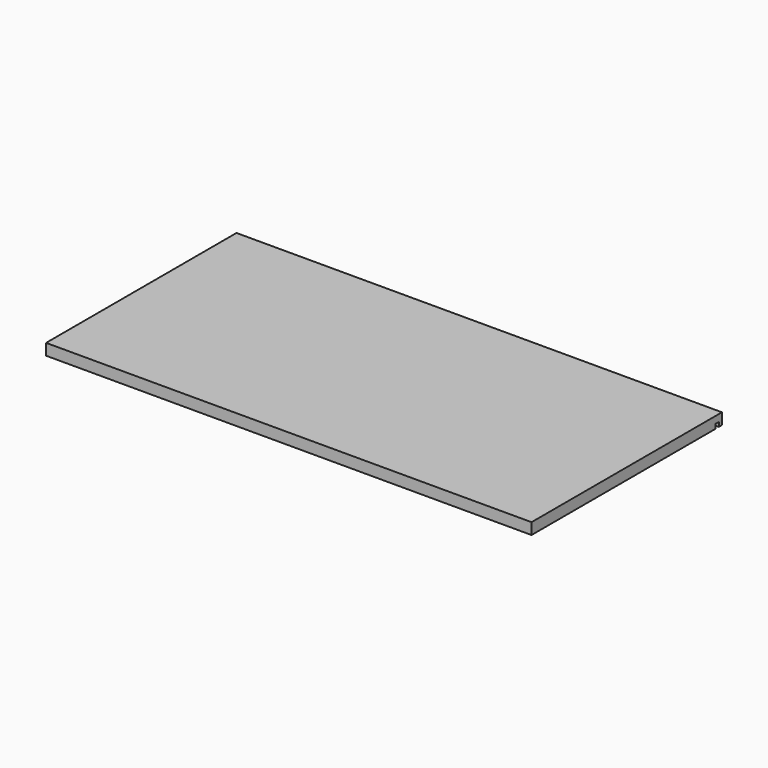
from build123d import *

# Parameters (mm, degrees)
SKETCH_W             = 771
SKETCH_H             = 378
PAD_DEPTH            = 18
SKETCH001_R          = 2.5
POCKET_DEPTH         = 9
SKETCH002_W          = 6.5
SKETCH002_H          = 7
POCKET001_DEPTH      = 550
POCKET001_DEPTH_BACK = -550


with BuildPart() as part:
    # Sketch → Pad (new body)
    with BuildSketch(Plane.XY):
        Rectangle(SKETCH_W, SKETCH_H)
    extrude(amount=PAD_DEPTH)

    # Sketch001 → Pocket (cut)
    with BuildSketch(Plane.XY.offset(9)):
        with Locations((-376, -81)):
            Circle(SKETCH001_R)
        with Locations((-344, -81)):
            Circle(SKETCH001_R)
        with Locations((-312, -81)):
            Circle(SKETCH001_R)
        with Locations((-280, -81)):
            Circle(SKETCH001_R)
        with Locations((-248, -81)):
            Circle(SKETCH001_R)
        with Locations((-216, -81)):
            Circle(SKETCH001_R)
        with Locations((-184, -81)):
            Circle(SKETCH001_R)
        with Locations((-152, -81)):
            Circle(SKETCH001_R)
        with Locations((-120, -81)):
            Circle(SKETCH001_R)
        with Locations((-88, -81)):
            Circle(SKETCH001_R)
        with Locations((-56, -81)):
            Circle(SKETCH001_R)
        with Locations((-24, -81)):
            Circle(SKETCH001_R)
        with Locations((8, -81)):
            Circle(SKETCH001_R)
        with Locations((40, -81)):
            Circle(SKETCH001_R)
        with Locations((72, -81)):
            Circle(SKETCH001_R)
        with Locations((104, -81)):
            Circle(SKETCH001_R)
        with Locations((136, -81)):
            Circle(SKETCH001_R)
        with Locations((168, -81)):
            Circle(SKETCH001_R)
        with Locations((200, -81)):
            Circle(SKETCH001_R)
        with Locations((232, -81)):
            Circle(SKETCH001_R)
        with Locations((264, -81)):
            Circle(SKETCH001_R)
        with Locations((296, -81)):
            Circle(SKETCH001_R)
        with Locations((-376, -17)):
            Circle(SKETCH001_R)
        with Locations((-344, -17)):
            Circle(SKETCH001_R)
        with Locations((-312, -17)):
            Circle(SKETCH001_R)
        with Locations((-280, -17)):
            Circle(SKETCH001_R)
        with Locations((-248, -17)):
            Circle(SKETCH001_R)
        with Locations((-216, -17)):
            Circle(SKETCH001_R)
        with Locations((-184, -17)):
            Circle(SKETCH001_R)
        with Locations((-152, -17)):
            Circle(SKETCH001_R)
        with Locations((-120, -17)):
            Circle(SKETCH001_R)
        with Locations((-88, -17)):
            Circle(SKETCH001_R)
        with Locations((-56, -17)):
            Circle(SKETCH001_R)
        with Locations((-24, -17)):
            Circle(SKETCH001_R)
        with Locations((8, -17)):
            Circle(SKETCH001_R)
        with Locations((40, -17)):
            Circle(SKETCH001_R)
        with Locations((72, -17)):
            Circle(SKETCH001_R)
        with Locations((104, -17)):
            Circle(SKETCH001_R)
        with Locations((136, -17)):
            Circle(SKETCH001_R)
        with Locations((168, -17)):
            Circle(SKETCH001_R)
        with Locations((200, -17)):
            Circle(SKETCH001_R)
        with Locations((232, -17)):
            Circle(SKETCH001_R)
        with Locations((264, -17)):
            Circle(SKETCH001_R)
        with Locations((296, -17)):
            Circle(SKETCH001_R)
    extrude(amount=-POCKET_DEPTH, mode=Mode.SUBTRACT)

    # Sketch002 → Pocket001 (cut, two sides)
    with BuildSketch(Plane.YZ) as pocket001_sk:
        with Locations((179.75, 3.5)):
            Rectangle(SKETCH002_W, SKETCH002_H)
    extrude(amount=-POCKET001_DEPTH, mode=Mode.SUBTRACT)
    extrude(pocket001_sk.sketch, amount=-POCKET001_DEPTH_BACK, mode=Mode.SUBTRACT)


solid = part.part
